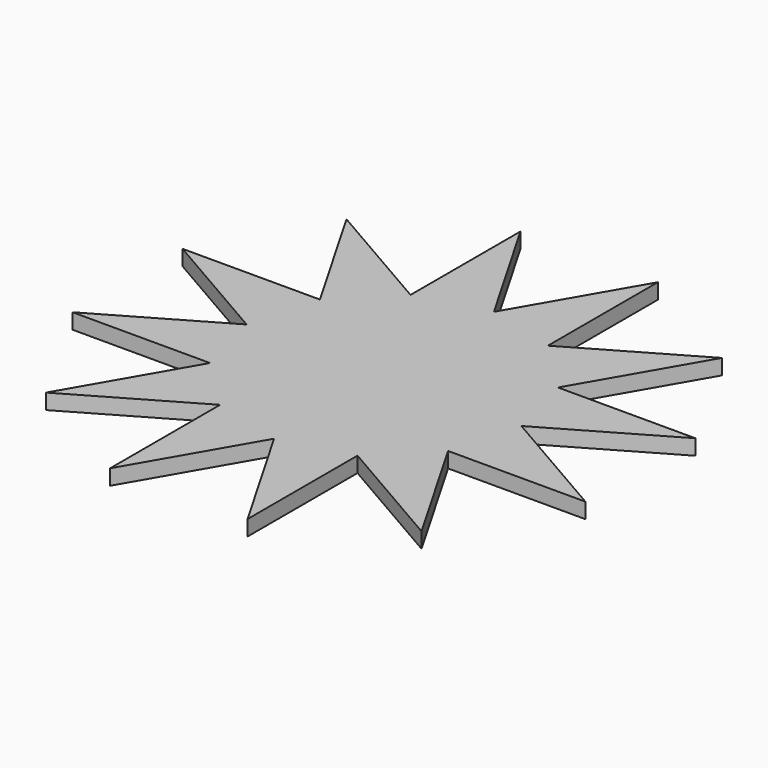
from build123d import *

# Parameters (mm, degrees)
F1_DEPTH = 25


with BuildPart() as f1:
    # F0 (on Top) → F1 (new body)
    with BuildSketch(Plane.XY):
        Polygon((222.938415, 0), (416.008746, 111.469207), (193.070331, 111.469207), (304.539538, 304.539538), (111.469207, 193.070331), (111.469207, 416.008746), (0, 222.938415), (-111.469207, 416.008746), (-111.469207, 193.070331), (-304.539538, 304.539538), (-193.070331, 111.469207), (-416.008746, 111.469207), (-222.938415, 0), (-416.008746, -111.469207), (-193.070331, -111.469207), (-304.539538, -304.539538), (-111.469207, -193.070331), (-111.469207, -416.008746), (0, -222.938415), (111.469207, -416.008746), (111.469207, -193.070331), (304.539538, -304.539538), (193.070331, -111.469207), (416.008746, -111.469207), align=None)
    extrude(amount=F1_DEPTH)


solid = f1.part
